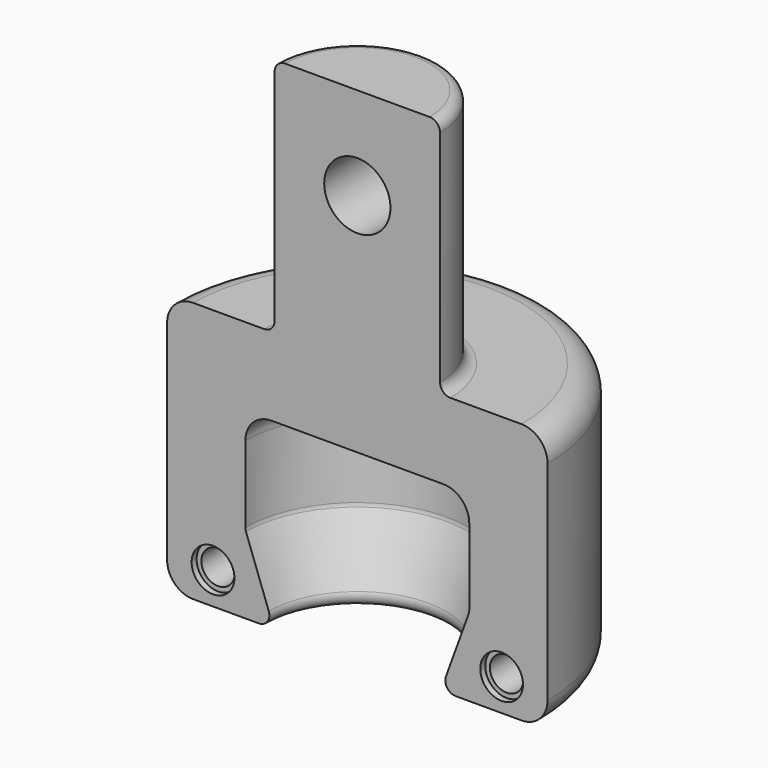
from build123d import *

# Parameters (mm, degrees)
F1_ANGLE = -180
F2_R     = 2
F3_R     = 4.1
F3_R_2   = 3.2
F4_DEPTH = 1.2
F5_DEPTH = 12
F3_R_3   = 6.35
F6_DEPTH = 36.460554
F7_R     = 5


with BuildPart() as f1:
    # F0 (on Front) → F1 (revolve)
    with BuildSketch(Plane.XZ):
        with BuildLine():
            Line((21.459554, 35), (21.459554, 15))
            Line((21.459554, 15), (21.459554, 0))
            Line((21.459554, 0), (36.459554, 0))
            Line((36.459554, 0), (36.459554, 50))
            Line((36.459554, 50), (15.8496, 50))
            Line((15.8496, 50), (15.8496, 96.101))
            Line((15.8496, 96.101), (0, 96.101))
            Line((0, 96.101), (0, 84.671))
            ThreePointArc((0, 84.671), (4.490128, 82.811128), (6.35, 78.321))
            ThreePointArc((6.35, 78.321), (4.490128, 73.830872), (0, 71.971))
            Line((0, 71.971), (0, 35))
            Line((0, 35), (21.459554, 35))
        make_face()
        with BuildLine():
            Line((21.459554, 35), (21.459554, 15))
            Line((21.459554, 15), (21.459554, 0))
            Line((21.459554, 0), (36.459554, 0))
            Line((36.459554, 0), (36.459554, 50))
            Line((36.459554, 50), (15.8496, 50))
            Line((15.8496, 50), (15.8496, 96.101))
            Line((15.8496, 96.101), (0, 96.101))
            Line((0, 96.101), (0, 84.671))
            ThreePointArc((0, 84.671), (4.490128, 82.811128), (6.35, 78.321))
            ThreePointArc((6.35, 78.321), (4.490128, 73.830872), (0, 71.971))
            Line((0, 71.971), (0, 35))
            Line((0, 35), (21.459554, 35))
        make_face()
        Polygon((21.459554, 15), (16, 0), (21.459554, 0), align=None)
    revolve(axis=Axis((0, 0, 65.5505), (0, 0, -1)), revolution_arc=F1_ANGLE)

    # F2
    f2_edges = [f1.edges().sort_by_distance(p)[0] for p in [
        (0, 15.8496, 50),
        (0, 15.8496, 96.101),
        (0, 16, 0),
        (0, 21.459554, 15),
    ]]
    fillet(f2_edges, radius=F2_R)

    # F3 (on Front) → F4 (cut)
    with BuildSketch(Plane.XZ):
        with Locations((27.657925, 6.15)):
            Circle(F3_R)
        with Locations((27.657925, 6.15)):
            Circle(F3_R_2, mode=Mode.SUBTRACT)
        with Locations((-27.657925, 6.15)):
            Circle(F3_R)
        with Locations((-27.657925, 6.15)):
            Circle(F3_R_2, mode=Mode.SUBTRACT)
        with Locations((-27.657925, 6.15)):
            Circle(F3_R_2)
        with Locations((27.657925, 6.15)):
            Circle(F3_R_2)
    extrude(amount=-F4_DEPTH, mode=Mode.SUBTRACT)

    # F3 (on Front) → F5 (cut)
    with BuildSketch(Plane.XZ):
        with Locations((-27.657925, 6.15)):
            Circle(F3_R_2)
        with Locations((27.657925, 6.15)):
            Circle(F3_R_2)
    extrude(amount=-F5_DEPTH, mode=Mode.SUBTRACT)

    # F3 (on Front) → F6 (cut, through all)
    with BuildSketch(Plane.XZ):
        with Locations((0, 78.321)):
            Circle(F3_R_3)
    extrude(amount=-F6_DEPTH, mode=Mode.SUBTRACT)

    # F7
    f7_edges = [f1.edges().sort_by_distance(p)[0] for p in [
        (0, 36.459554, 50),
        (0, 36.459554, 0),
        (0, 21.459554, 35),
    ]]
    fillet(f7_edges, radius=F7_R)


solid = f1.part
